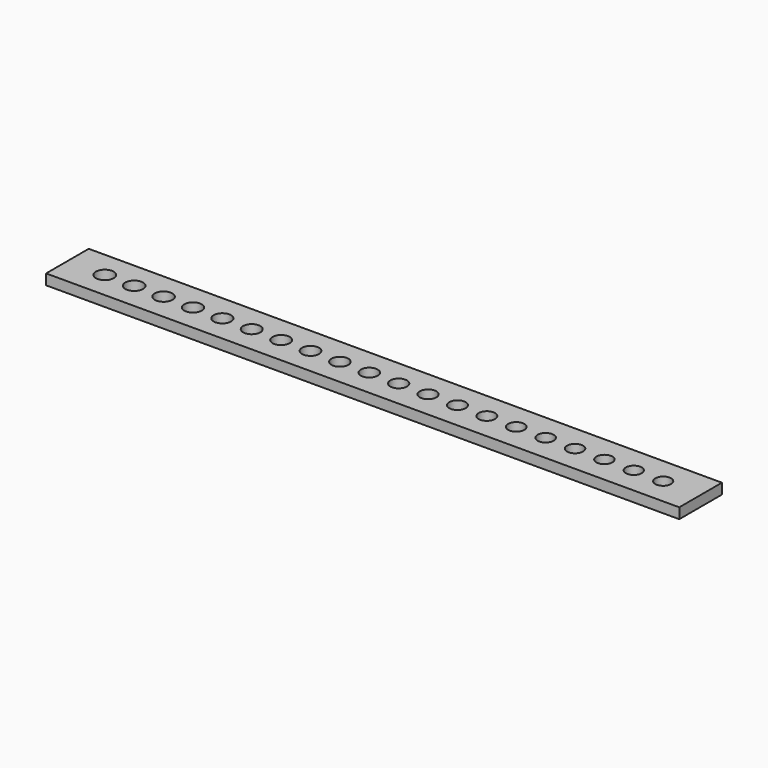
from build123d import *

# Parameters (mm, degrees)
F0_W     = 301.625
F0_H     = 25.4
F0_R     = 4.25
F0_R_2   = 4.225
F0_R_3   = 4.2
F0_R_4   = 4.15
F0_R_5   = 4.125
F0_R_6   = 4.1
F0_R_7   = 4.075
F0_R_8   = 4.05
F0_R_9   = 4.025
F0_R_10  = 4
F0_R_11  = 3.975
F0_R_12  = 3.95
F0_R_13  = 3.925
F0_R_14  = 3.9
F0_R_15  = 3.875
F0_R_16  = 3.85
F0_R_17  = 3.825
F0_R_18  = 3.8
F0_R_19  = 3.775
F0_R_20  = 3.75
F1_DEPTH = 5


with BuildPart() as f1:
    # F0 (on Top) → F1 (new body)
    with BuildSketch(Plane.XY):
        with Locations((150.8125, 12.7)):
            Rectangle(F0_W, F0_H)
        with Locations((17.8125, 12.7)):
            Circle(F0_R, mode=Mode.SUBTRACT)
        with Locations((31.8125, 12.7)):
            Circle(F0_R_2, mode=Mode.SUBTRACT)
        with Locations((45.8125, 12.7)):
            Circle(F0_R_3, mode=Mode.SUBTRACT)
        with Locations((59.8125, 12.7)):
            Circle(F0_R_4, mode=Mode.SUBTRACT)
        with Locations((73.8125, 12.7)):
            Circle(F0_R_5, mode=Mode.SUBTRACT)
        with Locations((87.8125, 12.7)):
            Circle(F0_R_6, mode=Mode.SUBTRACT)
        with Locations((101.8125, 12.7)):
            Circle(F0_R_7, mode=Mode.SUBTRACT)
        with Locations((115.8125, 12.7)):
            Circle(F0_R_8, mode=Mode.SUBTRACT)
        with Locations((129.8125, 12.7)):
            Circle(F0_R_9, mode=Mode.SUBTRACT)
        with Locations((143.8125, 12.7)):
            Circle(F0_R_10, mode=Mode.SUBTRACT)
        with Locations((157.8125, 12.7)):
            Circle(F0_R_11, mode=Mode.SUBTRACT)
        with Locations((171.8125, 12.7)):
            Circle(F0_R_12, mode=Mode.SUBTRACT)
        with Locations((185.8125, 12.7)):
            Circle(F0_R_13, mode=Mode.SUBTRACT)
        with Locations((199.8125, 12.7)):
            Circle(F0_R_14, mode=Mode.SUBTRACT)
        with Locations((213.8125, 12.7)):
            Circle(F0_R_15, mode=Mode.SUBTRACT)
        with Locations((227.8125, 12.7)):
            Circle(F0_R_16, mode=Mode.SUBTRACT)
        with Locations((241.8125, 12.7)):
            Circle(F0_R_17, mode=Mode.SUBTRACT)
        with Locations((255.8125, 12.7)):
            Circle(F0_R_18, mode=Mode.SUBTRACT)
        with Locations((269.8125, 12.7)):
            Circle(F0_R_19, mode=Mode.SUBTRACT)
        with Locations((283.8125, 12.7)):
            Circle(F0_R_20, mode=Mode.SUBTRACT)
    extrude(amount=F1_DEPTH)


solid = f1.part
